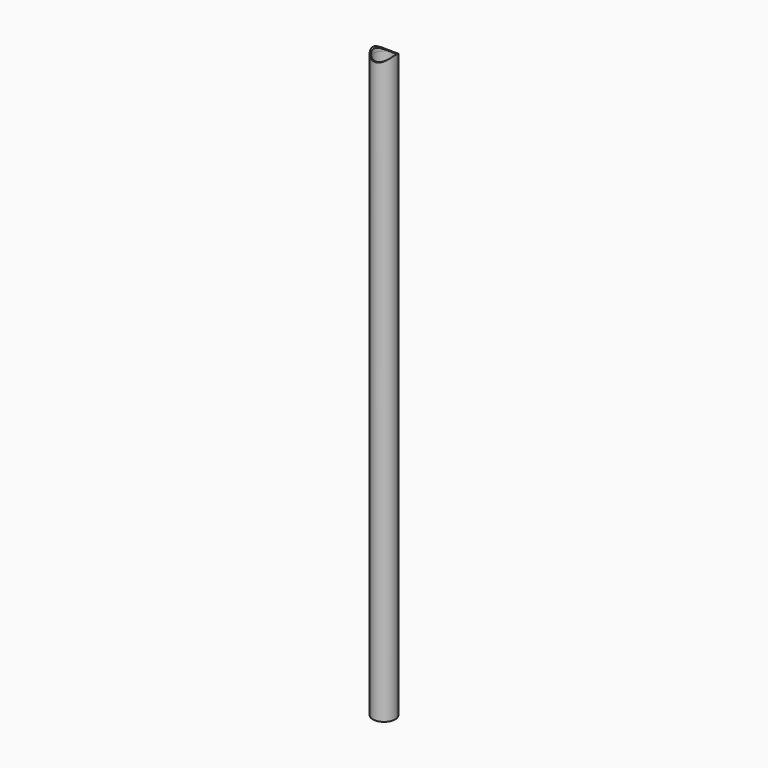
from build123d import *

# Parameters (mm, degrees)
F0_R     = 9.7
F0_R_2   = 8.7
F1_DEPTH = 500
F3_DEPTH = 10
F4_DEPTH = 12.5


with BuildPart() as f1:
    # F0 (on Top) → F1 (new body)
    with BuildSketch(Plane.XY):
        Circle(F0_R)
        Circle(F0_R_2, mode=Mode.SUBTRACT)
    extrude(amount=-F1_DEPTH)

    # F0 (on Top) → F3 (join)
    with BuildSketch(Plane.XY):
        Circle(F0_R)
        Circle(F0_R_2, mode=Mode.SUBTRACT)
    extrude(amount=F3_DEPTH)

    # F2 (on Front) → F4 (cut, symmetric)
    with BuildSketch(Plane.XZ):
        with BuildLine():
            Line((-9.7, 10), (-9.7, 4.502439))
            ThreePointArc((-9.7, 4.502439), (0, 0), (9.7, 4.502439))
            Line((9.7, 4.502439), (9.7, 10))
            Line((9.7, 10), (-9.7, 10))
        make_face()
    extrude(amount=F4_DEPTH, both=True, mode=Mode.SUBTRACT)


solid = f1.part
